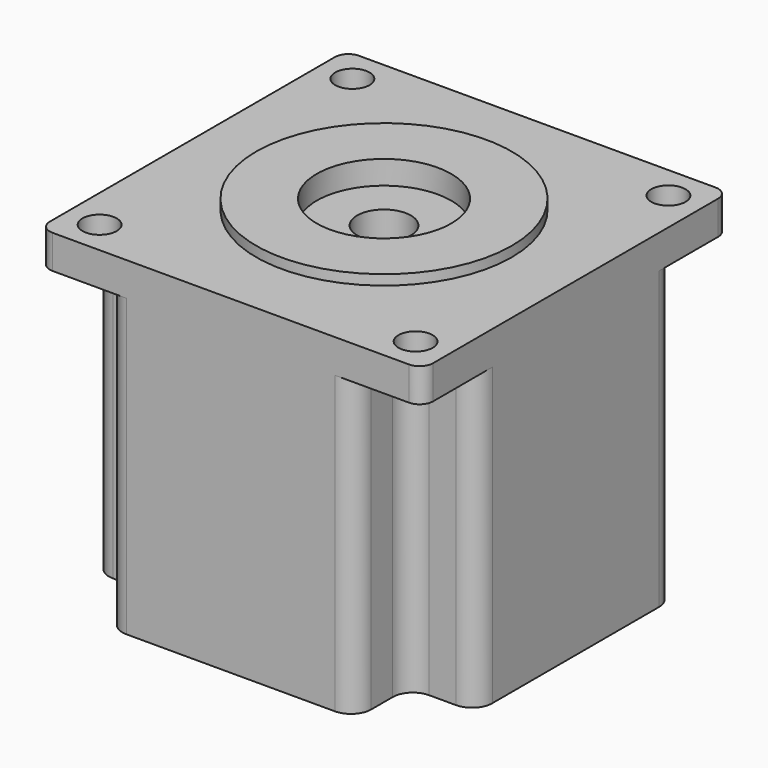
from build123d import *

# Parameters (mm, degrees)
F0_W      = 57
F0_H      = 57
F1_DEPTH  = 49
F2_R      = 2
F3_R      = 2.55
F4_DEPTH  = 49.001
F5_R      = 2.55
F6_DEPTH  = 44
F7_R      = 3
F8_R      = 10
F9_DEPTH  = 2
F10_R     = 4
F11_DEPTH = 25
F12_R     = 19
F12_R_2   = 10
F13_DEPTH = 1.5


with BuildPart() as f1:
    # F0 (on Top) → F1 (new body)
    with BuildSketch(Plane.XY):
        Rectangle(F0_W, F0_H)
    extrude(amount=F1_DEPTH)

    # F2
    f2_edges = [f1.edges().sort_by_distance(p)[0] for p in [
        (-28.5, -28.5, 24.5),
        (28.5, -28.5, 24.5),
        (28.5, 28.5, 24.5),
        (-28.5, 28.5, 24.5),
    ]]
    fillet(f2_edges, radius=F2_R)

    # F3 (on face) → F4 (cut, through all)
    with BuildSketch(Plane(origin=(0, 0, 0), x_dir=(1, 0, 0), z_dir=(0, 0, -1))):
        with Locations((-23.5, -23.5)):
            Circle(F3_R)
        with Locations((-23.5, 23.5)):
            Circle(F3_R)
        with Locations((23.5, 23.5)):
            Circle(F3_R)
        with Locations((23.5, -23.5)):
            Circle(F3_R)
    extrude(amount=-F4_DEPTH, mode=Mode.SUBTRACT)

    # F5 (on face) → F6 (cut)
    with BuildSketch(Plane(origin=(0, 0, 0), x_dir=(1, 0, 0), z_dir=(0, 0, -1))):
        with BuildLine():
            Line((-26.5, -28.5), (-18.5, -28.5))
            Line((-18.5, -28.5), (-18.5, -18.5))
            Line((-18.5, -18.5), (-28.5, -18.5))
            Line((-28.5, -18.5), (-28.5, -26.5))
            ThreePointArc((-28.5, -26.5), (-27.9142135624, -27.9142135624), (-26.5, -28.5))
        make_face()
        with Locations((-23.5, -23.5)):
            Circle(F5_R, mode=Mode.SUBTRACT)
        with BuildLine():
            Line((28.5, -26.5), (28.5, -18.5))
            Line((28.5, -18.5), (18.5, -18.5))
            Line((18.5, -18.5), (18.5, -28.5))
            Line((18.5, -28.5), (26.5, -28.5))
            ThreePointArc((26.5, -28.5), (27.9142135624, -27.9142135624), (28.5, -26.5))
        make_face()
        with Locations((23.5, -23.5)):
            Circle(F5_R, mode=Mode.SUBTRACT)
        with BuildLine():
            Line((18.5, 18.5), (28.5, 18.5))
            Line((28.5, 18.5), (28.5, 26.5))
            ThreePointArc((28.5, 26.5), (27.9142135624, 27.9142135624), (26.5, 28.5))
            Line((26.5, 28.5), (18.5, 28.5))
            Line((18.5, 28.5), (18.5, 18.5))
        make_face()
        with Locations((23.5, 23.5)):
            Circle(F5_R, mode=Mode.SUBTRACT)
        with BuildLine():
            Line((-18.5, 18.5), (-18.5, 28.5))
            Line((-18.5, 28.5), (-26.5, 28.5))
            ThreePointArc((-26.5, 28.5), (-27.9142135624, 27.9142135624), (-28.5, 26.5))
            Line((-28.5, 26.5), (-28.5, 18.5))
            Line((-28.5, 18.5), (-18.5, 18.5))
        make_face()
        with Locations((-23.5, 23.5)):
            Circle(F5_R, mode=Mode.SUBTRACT)
    extrude(amount=-F6_DEPTH, mode=Mode.SUBTRACT)

    # F7
    f7_edges = [f1.edges().sort_by_distance(p)[0] for p in [
        (-18.5, -18.5, 22),
        (-18.5, -28.5, 22),
        (-28.5, -18.5, 22),
        (-28.5, 18.5, 22),
        (-18.5, 28.5, 22),
        (18.5, -28.5, 22),
        (28.5, -18.5, 22),
        (-18.5, 18.5, 22),
        (28.5, 18.5, 22),
        (18.5, 28.5, 22),
        (18.5, 18.5, 22),
        (18.5, -18.5, 22),
    ]]
    fillet(f7_edges, radius=F7_R)

    # F8 (on face) → F9 (cut)
    with BuildSketch(Plane.XY.offset(49)):
        Circle(F8_R)
    extrude(amount=-F9_DEPTH, mode=Mode.SUBTRACT)

    # F10 (on face) → F11 (cut)
    with BuildSketch(Plane.XY.offset(47)):
        Circle(F10_R)
    extrude(amount=-F11_DEPTH, mode=Mode.SUBTRACT)

    # F12 (on face) → F13 (join)
    with BuildSketch(Plane.XY.offset(49)):
        Circle(F12_R)
        Circle(F12_R_2, mode=Mode.SUBTRACT)
    extrude(amount=F13_DEPTH)


solid = f1.part
